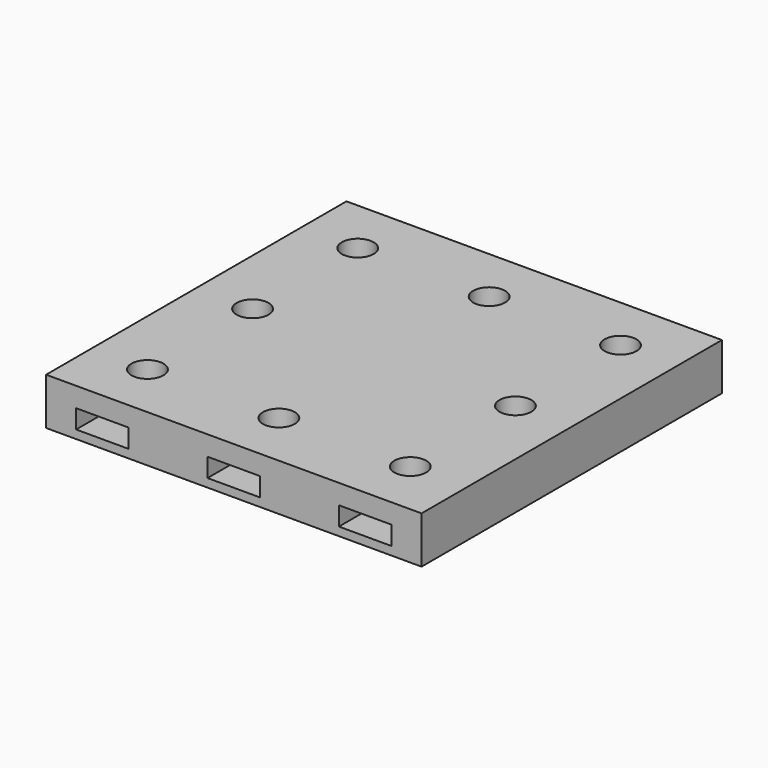
from build123d import *

# Parameters (mm, degrees)
CYLINDER004_R     = 1.7
CYLINDER004_DEPTH = 10
CYLINDER007_R     = 1.7
CYLINDER007_DEPTH = 10
CYLINDER005_R     = 1.7
CYLINDER005_DEPTH = 10
CYLINDER006_R     = 1.7
CYLINDER006_DEPTH = 10
CYLINDER001_R     = 1.7
CYLINDER001_DEPTH = 10
CYLINDER002_R     = 1.7
CYLINDER002_DEPTH = 10
CYLINDER003_R     = 1.7
CYLINDER003_DEPTH = 10
CYLINDER_R        = 1.7
CYLINDER_DEPTH    = 10
BOX017_W          = 5.8
BOX017_H          = 5.8
BOX017_DEPTH      = 2
BOX014_W          = 5.4
BOX014_H          = 5.4
BOX014_DEPTH      = 2
BOX015_W          = 5.7
BOX015_H          = 5.7
BOX015_DEPTH      = 2
BOX016_W          = 5.5
BOX016_H          = 5.5
BOX016_DEPTH      = 2
BOX018_W          = 5.6
BOX018_H          = 10
BOX018_DEPTH      = 2
BOX011_W          = 5.6
BOX011_H          = 5.6
BOX011_DEPTH      = 2
BOX012_W          = 5.6
BOX012_H          = 10
BOX012_DEPTH      = 2
BOX013_W          = 5.6
BOX013_H          = 10
BOX013_DEPTH      = 2
BOX001_W          = 40
BOX001_H          = 40
BOX001_DEPTH      = 5


with BuildPart() as cylinder004:
    # Cylinder004 → Cylinder004 (new body)
    with BuildSketch(Plane(origin=(20, 34, 0), x_dir=(1, 0, 0), z_dir=(0, 0, 1))):
        Circle(CYLINDER004_R)
    extrude(amount=CYLINDER004_DEPTH)


with BuildPart() as cylinder007:
    # Cylinder007 → Cylinder007 (new body)
    with BuildSketch(Plane(origin=(34, 20, 0), x_dir=(1, 0, 0), z_dir=(0, 0, 1))):
        Circle(CYLINDER007_R)
    extrude(amount=CYLINDER007_DEPTH)


with BuildPart() as cylinder005:
    # Cylinder005 → Cylinder005 (new body)
    with BuildSketch(Plane(origin=(6, 34, 0), x_dir=(1, 0, 0), z_dir=(0, 0, 1))):
        Circle(CYLINDER005_R)
    extrude(amount=CYLINDER005_DEPTH)


with BuildPart() as cylinder006:
    # Cylinder006 → Cylinder006 (new body)
    with BuildSketch(Plane(origin=(6, 20, 0), x_dir=(1, 0, 0), z_dir=(0, 0, 1))):
        Circle(CYLINDER006_R)
    extrude(amount=CYLINDER006_DEPTH)


with BuildPart() as cylinder001:
    # Cylinder001 → Cylinder001 (new body)
    with BuildSketch(Plane(origin=(20, 6, 0), x_dir=(1, 0, 0), z_dir=(0, 0, 1))):
        Circle(CYLINDER001_R)
    extrude(amount=CYLINDER001_DEPTH)


with BuildPart() as cylinder002:
    # Cylinder002 → Cylinder002 (new body)
    with BuildSketch(Plane(origin=(34, 6, 0), x_dir=(1, 0, 0), z_dir=(0, 0, 1))):
        Circle(CYLINDER002_R)
    extrude(amount=CYLINDER002_DEPTH)


with BuildPart() as cylinder003:
    # Cylinder003 → Cylinder003 (new body)
    with BuildSketch(Plane(origin=(34, 34, 0), x_dir=(1, 0, 0), z_dir=(0, 0, 1))):
        Circle(CYLINDER003_R)
    extrude(amount=CYLINDER003_DEPTH)


with BuildPart() as fusion002:
    # Cylinder → Cylinder (new body)
    with BuildSketch(Plane(origin=(6, 6, 0), x_dir=(1, 0, 0), z_dir=(0, 0, 1))):
        Circle(CYLINDER_R)
    extrude(amount=CYLINDER_DEPTH)

    # Fusion002: union Cylinder004, Cylinder007, Cylinder005, Cylinder006, Cylinder001, Cylinder002, Cylinder003
    add(cylinder004.part)
    add(cylinder007.part)
    add(cylinder005.part)
    add(cylinder006.part)
    add(cylinder001.part)
    add(cylinder002.part)
    add(cylinder003.part)


with BuildPart() as sphere008:
    # Sphere008 → Sphere008 (revolve)
    with BuildSketch(Plane(origin=(6, 34, 2.4), x_dir=(1, 0, 0), z_dir=(0, -1, 0))):
        with BuildLine():
            ThreePointArc((0, -3.35), (3.35, 0), (0, 3.35))
            Line((0, 3.35), (0, -3.35))
        make_face()
    revolve(axis=Axis((6, 34, 2.4), (0, 0, 1)))


with BuildPart() as obj1:
    # Sphere006 → Sphere006 (revolve)
    with BuildSketch(Plane(origin=(6, 6, 2.4), x_dir=(1, 0, 0), z_dir=(0, -1, 0))):
        with BuildLine():
            ThreePointArc((0, -3.35), (3.35, 0), (0, 3.35))
            Line((0, 3.35), (0, -3.35))
        make_face()
    revolve(axis=Axis((6, 6, 2.4), (0, 0, 1)))


with BuildPart() as sphere009:
    # Sphere009 → Sphere009 (revolve)
    with BuildSketch(Plane(origin=(20, 6, 2.4), x_dir=(1, 0, 0), z_dir=(0, -1, 0))):
        with BuildLine():
            ThreePointArc((0, -3.35), (3.35, 0), (0, 3.35))
            Line((0, 3.35), (0, -3.35))
        make_face()
    revolve(axis=Axis((20, 6, 2.4), (0, 0, 1)))


with BuildPart() as sphere001:
    # Sphere001 → Sphere001 (revolve)
    with BuildSketch(Plane(origin=(34, 6, 2.4), x_dir=(1, 0, 0), z_dir=(0, -1, 0))):
        with BuildLine():
            ThreePointArc((0, -3.35), (3.35, 0), (0, 3.35))
            Line((0, 3.35), (0, -3.35))
        make_face()
    revolve(axis=Axis((34, 6, 2.4), (0, 0, 1)))


with BuildPart() as sphere010:
    # Sphere010 → Sphere010 (revolve)
    with BuildSketch(Plane(origin=(20, 34, 2.4), x_dir=(1, 0, 0), z_dir=(0, -1, 0))):
        with BuildLine():
            ThreePointArc((0, -3.35), (3.35, 0), (0, 3.35))
            Line((0, 3.35), (0, -3.35))
        make_face()
    revolve(axis=Axis((20, 34, 2.4), (0, 0, 1)))


with BuildPart() as sphere004:
    # Sphere004 → Sphere004 (revolve)
    with BuildSketch(Plane(origin=(6, 20, 2.4), x_dir=(1, 0, 0), z_dir=(0, -1, 0))):
        with BuildLine():
            ThreePointArc((0, -3.35), (3.35, 0), (0, 3.35))
            Line((0, 3.35), (0, -3.35))
        make_face()
    revolve(axis=Axis((6, 20, 2.4), (0, 0, 1)))


with BuildPart() as sphere002:
    # Sphere002 → Sphere002 (revolve)
    with BuildSketch(Plane(origin=(34, 34, 2.4), x_dir=(1, 0, 0), z_dir=(0, -1, 0))):
        with BuildLine():
            ThreePointArc((0, -3.35), (3.35, 0), (0, 3.35))
            Line((0, 3.35), (0, -3.35))
        make_face()
    revolve(axis=Axis((34, 34, 2.4), (0, 0, 1)))


with BuildPart() as fusion003:
    # Sphere007 → Sphere007 (revolve)
    with BuildSketch(Plane(origin=(34, 20, 2.4), x_dir=(1, 0, 0), z_dir=(0, -1, 0))):
        with BuildLine():
            ThreePointArc((0, -3.35), (3.35, 0), (0, 3.35))
            Line((0, 3.35), (0, -3.35))
        make_face()
    revolve(axis=Axis((34, 20, 2.4), (0, 0, 1)))

    # Fusion003: union Sphere008, obj1, Sphere009, Sphere001, Sphere010, Sphere004, Sphere002
    add(sphere008.part)
    add(obj1.part)
    add(sphere009.part)
    add(sphere001.part)
    add(sphere010.part)
    add(sphere004.part)
    add(sphere002.part)


with BuildPart() as box017:
    # Box017 → Box017 (new body)
    with BuildSketch(Plane(origin=(3.1, 17.1, 4.6), x_dir=(1, 0, 0), z_dir=(0, 0, 1))):
        with Locations((2.9, 2.9)):
            Rectangle(BOX017_W, BOX017_H)
    extrude(amount=BOX017_DEPTH)


with BuildPart() as box014:
    # Box014 → Box014 (new body)
    with BuildSketch(Plane(origin=(31.3, 17.3, 4.6), x_dir=(1, 0, 0), z_dir=(0, 0, 1))):
        with Locations((2.7, 2.7)):
            Rectangle(BOX014_W, BOX014_H)
    extrude(amount=BOX014_DEPTH)


with BuildPart() as box015:
    # Box015 → Box015 (new body)
    with BuildSketch(Plane(origin=(3.15, 31.15, 4.6), x_dir=(1, 0, 0), z_dir=(0, 0, 1))):
        with Locations((2.85, 2.85)):
            Rectangle(BOX015_W, BOX015_H)
    extrude(amount=BOX015_DEPTH)


with BuildPart() as box016:
    # Box016 → Box016 (new body)
    with BuildSketch(Plane(origin=(31.25, 31.25, 4.6), x_dir=(1, 0, 0), z_dir=(0, 0, 1))):
        with Locations((2.75, 2.75)):
            Rectangle(BOX016_W, BOX016_H)
    extrude(amount=BOX016_DEPTH)


with BuildPart() as box018:
    # Box018 → Box018 (new body)
    with BuildSketch(Plane(origin=(3.2, -0.85, 4.6), x_dir=(1, 0, 0), z_dir=(0, 0, 1))):
        with Locations((2.8, 5)):
            Rectangle(BOX018_W, BOX018_H)
    extrude(amount=BOX018_DEPTH)


with BuildPart() as box011:
    # Box011 → Box011 (new body)
    with BuildSketch(Plane(origin=(17.2, 31.2, 4.6), x_dir=(1, 0, 0), z_dir=(0, 0, 1))):
        with Locations((2.8, 2.8)):
            Rectangle(BOX011_W, BOX011_H)
    extrude(amount=BOX011_DEPTH)


with BuildPart() as box012:
    # Box012 → Box012 (new body)
    with BuildSketch(Plane(origin=(17.2, -0.85, 4.6), x_dir=(1, 0, 0), z_dir=(0, 0, 1))):
        with Locations((2.8, 5)):
            Rectangle(BOX012_W, BOX012_H)
    extrude(amount=BOX012_DEPTH)


with BuildPart() as fusion:
    # Box013 → Box013 (new body)
    with BuildSketch(Plane(origin=(31.2, -0.85, 4.6), x_dir=(1, 0, 0), z_dir=(0, 0, 1))):
        with Locations((2.8, 5)):
            Rectangle(BOX013_W, BOX013_H)
    extrude(amount=BOX013_DEPTH)

    # Fusion: union Box017, Box014, Box015, Box016, Box018, Box011, Box012
    add(box017.part)
    add(box014.part)
    add(box015.part)
    add(box016.part)
    add(box018.part)
    add(box011.part)
    add(box012.part)


with BuildPart() as cut002:
    # Box001 → Box001 (new body)
    with BuildSketch(Plane.XY.offset(3.7)):
        with Locations((20, 20)):
            Rectangle(BOX001_W, BOX001_H)
    extrude(amount=BOX001_DEPTH)

    # Cut: cut Fusion
    add(fusion.part, mode=Mode.SUBTRACT)

    # Cut001: cut Fusion003
    add(fusion003.part, mode=Mode.SUBTRACT)

    # Cut002: cut Fusion002
    add(fusion002.part, mode=Mode.SUBTRACT)


solid = cut002.part
